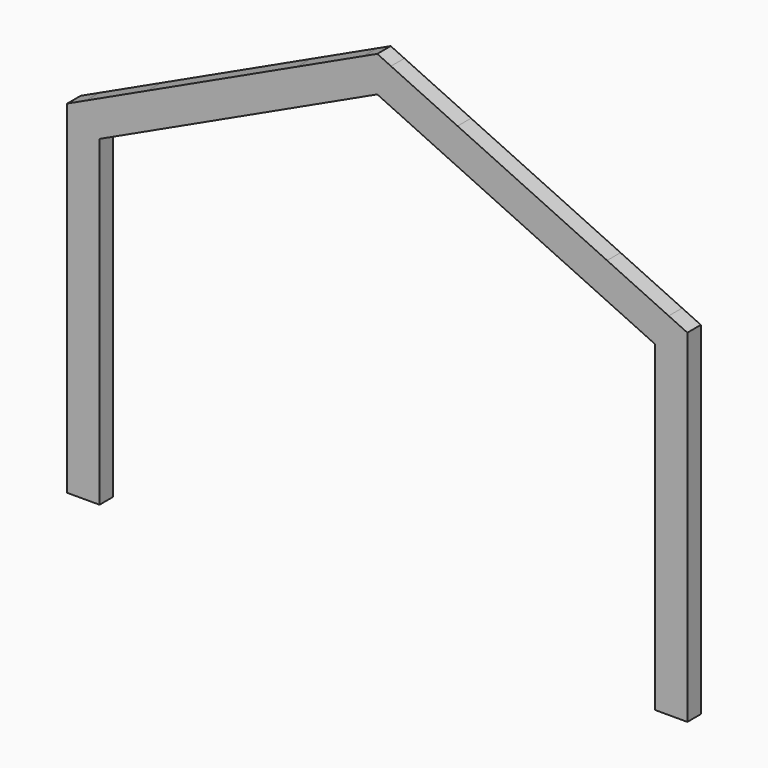
from build123d import *

# Parameters (mm, degrees)
F0_W     = 185.42
F0_H     = 389.874432
F0_H_2   = 1456.904984
F1_DEPTH = 96.52


with BuildPart() as f1:
    # F0 (on Front) → F1 (new body)
    with BuildSketch(Plane.XZ):
        with Locations((1685.29, 1651.8422)):
            Rectangle(F0_W, F0_H)
        Polygon((1670.941878, 2014.827006), (1592.58, 1846.779416), (1778, 1964.904984), align=None)
        Polygon((460.404356, 2579.309923), (382.042478, 2411.262333), (1239.233766, 2011.547471), (1317.595644, 2179.595061), align=None)
        Polygon((-1778, 1964.904984), (-1592.58, 1846.779416), (-1670.941878, 2014.827006), align=None)
        with Locations((-1685.29, 728.452492)):
            Rectangle(F0_W, F0_H_2)
        Polygon((1317.595644, 2179.595061), (1239.233766, 2011.547471), (1592.58, 1846.779416), (1670.941878, 2014.827006), align=None)
        with Locations((1685.29, 728.452492)):
            Rectangle(F0_W, F0_H_2)
        Polygon((-1670.941878, 2014.827006), (-1592.58, 1846.779416), (-1239.233766, 2011.547471), (-1317.595644, 2179.595061), align=None)
        Polygon((78.361878, 2757.459256), (0, 2589.411666), (382.042478, 2411.262333), (460.404356, 2579.309923), align=None)
        with Locations((-1685.29, 1651.8422)):
            Rectangle(F0_W, F0_H)
        Polygon((-460.404356, 2579.309923), (-382.042478, 2411.262333), (0, 2589.411666), (-78.361878, 2757.459256), align=None)
        Polygon((-78.361878, 2757.459256), (0, 2589.411666), (0, 2794), align=None)
        Polygon((-1778, 1846.779416), (-1592.58, 1846.779416), (-1778, 1964.904984), align=None)
        Polygon((1778, 1964.904984), (1592.58, 1846.779416), (1778, 1846.779416), align=None)
        Polygon((-1317.595644, 2179.595061), (-1239.233766, 2011.547471), (-382.042478, 2411.262333), (-460.404356, 2579.309923), align=None)
        Polygon((0, 2794), (0, 2589.411666), (78.361878, 2757.459256), align=None)
    extrude(amount=F1_DEPTH)


solid = f1.part
